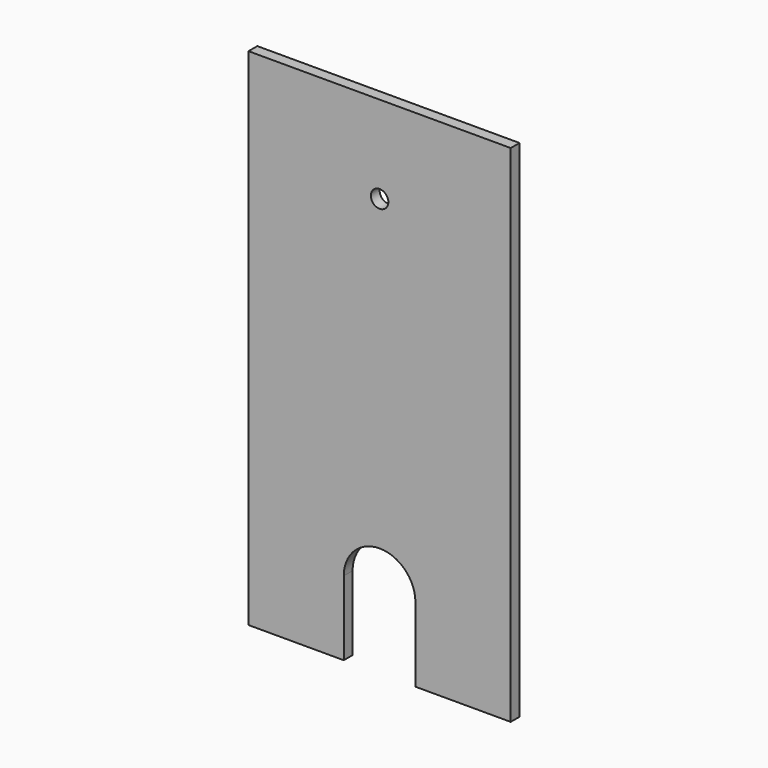
from build123d import *

# Parameters (mm, degrees)
F0_R     = 1.27
F1_DEPTH = 1.6002


with BuildPart() as f1:
    # F0 (on Front) → F1 (new body)
    with BuildSketch(Plane.XZ):
        with BuildLine():
            Line((5.207, -36.703), (19.05, -36.703))
            Line((19.05, -36.703), (19.05, 36.703))
            Line((19.05, 36.703), (-19.05, 36.703))
            Line((-19.05, 36.703), (-19.05, -36.703))
            Line((-19.05, -36.703), (-5.207, -36.703))
            Line((-5.207, -36.703), (-5.207, -25.908))
            ThreePointArc((-5.207, -25.908), (0, -20.701), (5.207, -25.908))
            Line((5.207, -25.908), (5.207, -36.703))
        make_face()
        with Locations((0, 24.003)):
            Circle(F0_R, mode=Mode.SUBTRACT)
    extrude(amount=F1_DEPTH)


solid = f1.part
